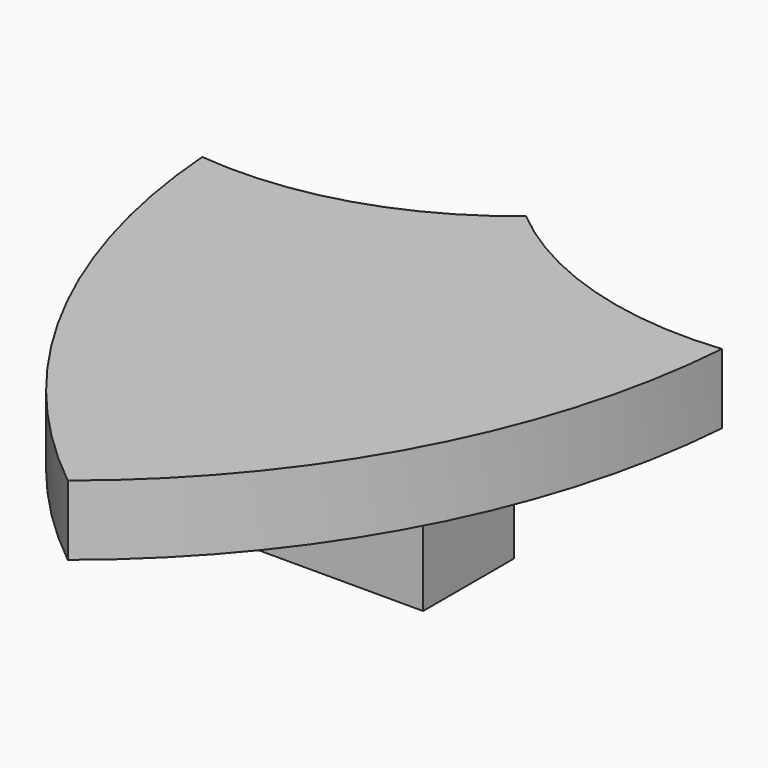
from build123d import *

# Parameters (mm, degrees)
F1_DEPTH = 10.16
F3_W     = 16.51
F3_H     = 16.51
F3_W_2   = 8.89
F4_DEPTH = 19.05


with BuildPart() as f1:
    # F0 (on Top) → F1 (new body)
    with BuildSketch(Plane.XY):
        with BuildLine():
            ThreePointArc((37.790984, 11.610111), (20.071244, 1.977976), (0, 0))
            ThreePointArc((0, 0), (11.43973, -39.771766), (37.790984, -71.682143))
            ThreePointArc((37.790984, -71.682143), (64.142238, -39.771766), (75.581968, 0))
            ThreePointArc((75.581968, 0), (55.510724, 1.977976), (37.790984, 11.610111))
        make_face()
    extrude(amount=F1_DEPTH)

    # F3 (on face) → F4 (join)
    with BuildSketch(Plane(origin=(0, 0, 0), x_dir=(1, 0, 0), z_dir=(0, 0, -1))):
        with Locations((46.045984, 19.463747)):
            Rectangle(F3_W, F3_H)
        with Locations((33.345984, 19.463747)):
            Rectangle(F3_W_2, F3_H)
    extrude(amount=F4_DEPTH)


solid = f1.part
